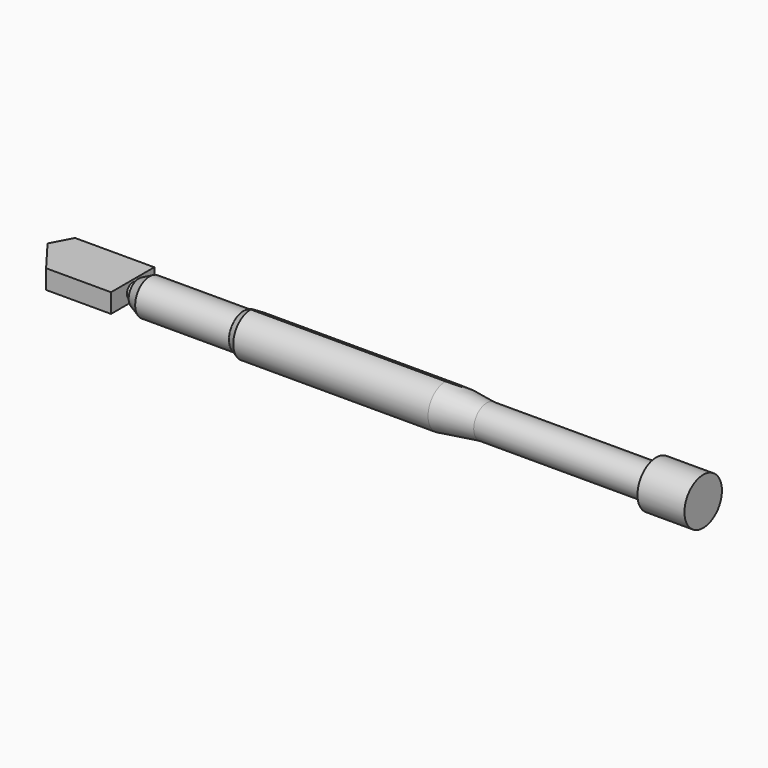
from build123d import *

# Parameters (mm, degrees)
F0_W     = 1.7
F0_H     = 2
F0_W_2   = 26
F0_H_2   = 5
F0_W_3   = 54
F0_H_3   = 6
F0_W_4   = 47
F0_H_4   = 4.5
F2_DEPTH = 2.65
F4_DEPTH = 97.7


with BuildPart() as f1:
    # F0 (on Top) → F1 (revolve)
    with BuildSketch(Plane.XY):
        with Locations((-6.814198, -1)):
            Rectangle(F0_W, F0_H)
        with Locations((10.035802, -2.5)):
            Rectangle(F0_W_2, F0_H_2)
        Polygon((25.035802, 0), (23.035802, 0), (23.035802, -5), (25.035802, -6), align=None)
        with Locations((52.035802, -3)):
            Rectangle(F0_W_3, F0_H_3)
        Polygon((90.496607, 0), (79.035802, 0), (79.035802, -6), (90.496607, -4.5), align=None)
        with Locations((113.996607, -2.25)):
            Rectangle(F0_W_4, F0_H_4)
        Polygon((150.523409, 0), (137.496607, 0), (137.496607, -4.5), (137.496607, -6.5), (150.523409, -6.5), align=None)
        Polygon((-2.964198, 0), (-5.964198, 0), (-5.964198, -2), (-5.964198, -3.5), (-2.964198, -5), align=None)
    revolve(axis=Axis((44.526573, 0, 0), (1, 0, 0)))

    # F0 (on Top) → F2 (join, symmetric)
    with BuildSketch(Plane.XY):
        Polygon((-7.664198, 7.5), (-29.664198, 7.5), (-32.664198, 1.760973), (-25.664198, -7.5), (-7.664198, -7.5), (-7.664198, -2), (-7.664198, 0), align=None)
    extrude(amount=F2_DEPTH, both=True)

    # F3 (on Right) → F4 (cut)
    with BuildSketch(Plane.YZ):
        Polygon((0.013024, 7.701685), (0.013024, 6.024447), (5.223836, 3.000944), (8.659112, 3.000944), (8.659112, -3.023503), (5.210811, -3.023503), (-0.013024, -6.024447), (0.013024, -7.905965), (11.633459, -7.905965), (11.633459, 7.701685), align=None)
    extrude(amount=F4_DEPTH, mode=Mode.SUBTRACT)


solid = f1.part
